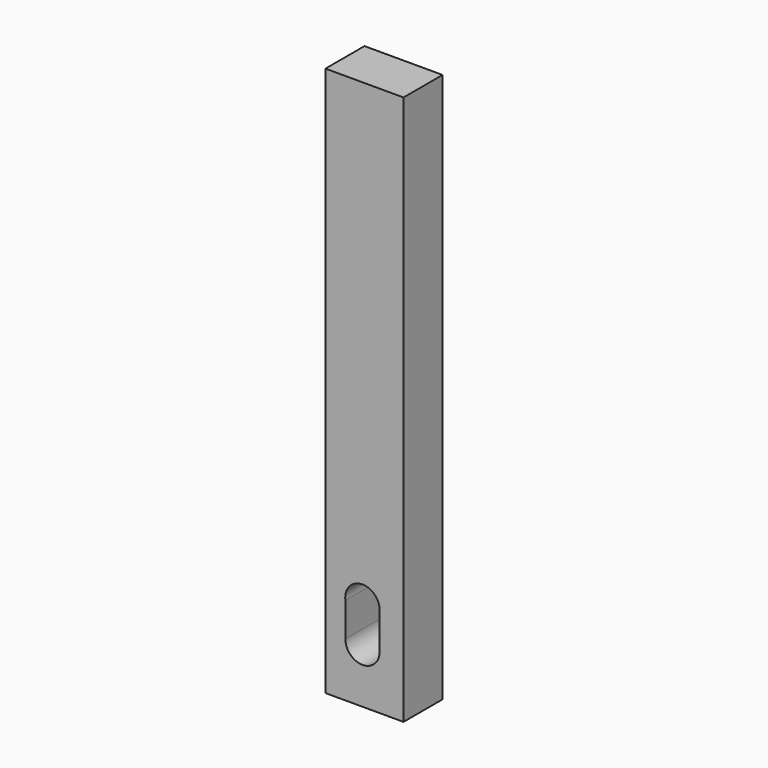
from build123d import *

# Parameters (mm, degrees)
F0_W     = 10.16
F0_H     = 71.552346
F1_DEPTH = 3.175


with BuildPart() as f1:
    # F0 (on Front) → F1 (new body, symmetric)
    with BuildSketch(Plane.XZ):
        Rectangle(F0_W, F0_H)
        with BuildLine():
            ThreePointArc((-2.489432, -24.29621), (-0.303735, -21.756134), (1.967174, -24.220324))
            Line((1.967174, -24.220324), (1.967174, -28.548131))
            ThreePointArc((1.967174, -28.548131), (-0.15872, -30.974596), (-2.489432, -28.744139))
            Line((-2.489432, -28.744139), (-2.489432, -24.29621))
        make_face(mode=Mode.SUBTRACT)
    extrude(amount=F1_DEPTH, both=True)


solid = f1.part
